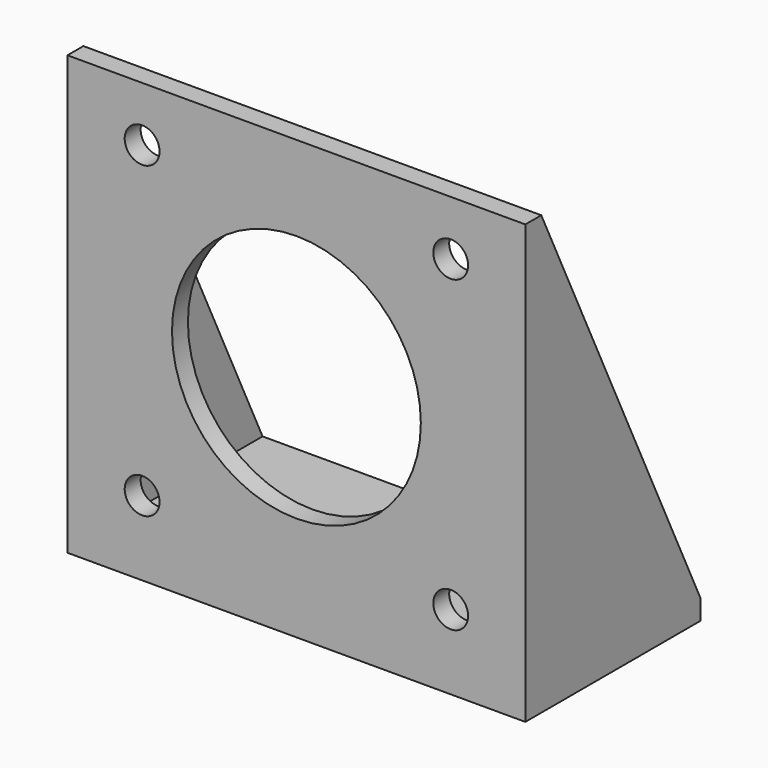
from build123d import *

# Parameters (mm, degrees)
F1_DEPTH = 23
F3_DEPTH = 21
F4_R     = 12.5
F4_R_2   = 1.75
F5_DEPTH = 22.001


with BuildPart() as f1:
    # F0 (on Right) → F1 (new body, symmetric)
    with BuildSketch(Plane.YZ):
        Polygon((2, 44), (0, 44), (0, 0), (22, 0), (22, 2), align=None)
    extrude(amount=F1_DEPTH, both=True)

    # F2 (on Right) → F3 (cut, symmetric)
    with BuildSketch(Plane.YZ):
        Polygon((2, 2), (22, 2), (2, 44), align=None)
    extrude(amount=F3_DEPTH, both=True, mode=Mode.SUBTRACT)

    # F4 (on face) → F5 (cut, through all)
    with BuildSketch(Plane.XZ):
        with Locations((0, 23)):
            Circle(F4_R)
        with Locations((-15.5, 38.5)):
            Circle(F4_R_2)
        with Locations((-15.5, 7.5)):
            Circle(F4_R_2)
        with Locations((15.5, 38.5)):
            Circle(F4_R_2)
        with Locations((15.5, 7.5)):
            Circle(F4_R_2)
    extrude(amount=-F5_DEPTH, mode=Mode.SUBTRACT)


solid = f1.part
